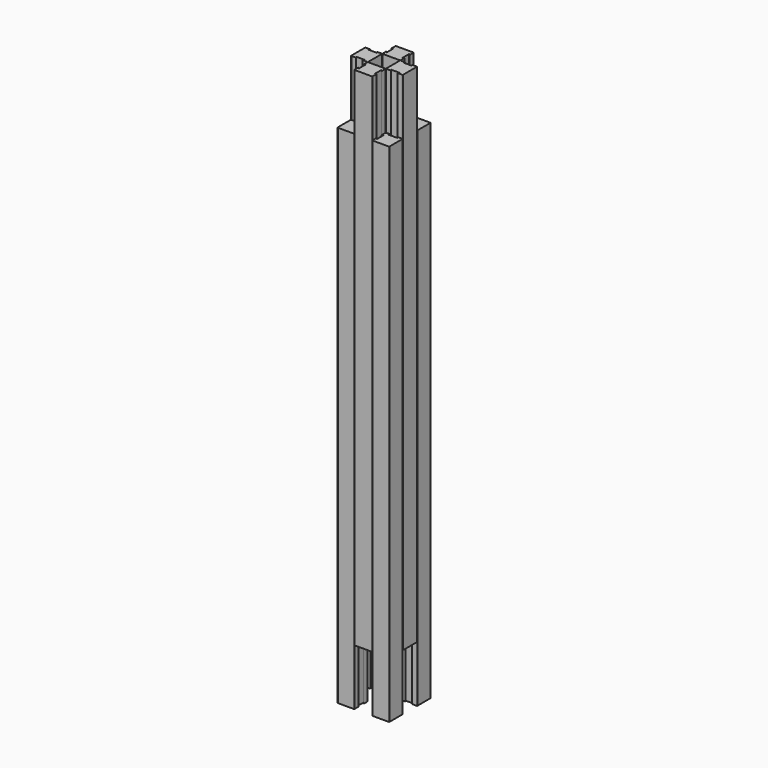
from build123d import *

# Parameters (mm, degrees)
F4_DEPTH = 450
F5_DEPTH = 450


with BuildPart() as f4:
    # F2 (on Top) → F4 (new body)
    with BuildSketch(Plane.XY):
        with BuildLine():
            Line((-22.5, -23), (-8.5, -23))
            ThreePointArc((-8.5, -23), (-8.146447, -22.853553), (-8, -22.5))
            Line((-8, -22.5), (-8, -18.5))
            Line((-8, -18.5), (-9.2, -19.5))
            Line((-9.2, -19.5), (-9.2, -15.5))
            Line((-9.2, -15.5), (-9.2, -11.5))
            Line((-9.2, -11.5), (-8, -12.5))
            Line((-8, -12.5), (-8, -8.5))
            ThreePointArc((-8, -8.5), (-8.146447, -8.146447), (-8.5, -8))
            Line((-8.5, -8), (-12.5, -8))
            Line((-12.5, -8), (-11.5, -9.2))
            Line((-11.5, -9.2), (-15.5, -9.2))
            Line((-15.5, -9.2), (-19.5, -9.2))
            Line((-19.5, -9.2), (-18.5, -8))
            Line((-18.5, -8), (-22.5, -8))
            ThreePointArc((-22.5, -8), (-22.853553, -8.146447), (-23, -8.5))
            Line((-23, -8.5), (-23, -22.5))
            ThreePointArc((-23, -22.5), (-22.853553, -22.853553), (-22.5, -23))
        make_face()
        with BuildLine():
            ThreePointArc((8, -22.5), (8.146447, -22.853553), (8.5, -23))
            Line((8.5, -23), (22.5, -23))
            ThreePointArc((22.5, -23), (22.853553, -22.853553), (23, -22.5))
            Line((23, -22.5), (23, -8.5))
            ThreePointArc((23, -8.5), (22.853553, -8.146447), (22.5, -8))
            Line((22.5, -8), (18.5, -8))
            Line((18.5, -8), (19.5, -9.2))
            Line((19.5, -9.2), (15.5, -9.2))
            Line((15.5, -9.2), (11.5, -9.2))
            Line((11.5, -9.2), (12.5, -8))
            Line((12.5, -8), (8.5, -8))
            ThreePointArc((8.5, -8), (8.146447, -8.146447), (8, -8.5))
            Line((8, -8.5), (8, -12.5))
            Line((8, -12.5), (9.2, -11.5))
            Line((9.2, -11.5), (9.2, -15.5))
            Line((9.2, -15.5), (9.2, -19.5))
            Line((9.2, -19.5), (8, -18.5))
            Line((8, -18.5), (8, -22.5))
        make_face()
        with BuildLine():
            ThreePointArc((22.5, 8), (22.853553, 8.146447), (23, 8.5))
            Line((23, 8.5), (23, 22.5))
            ThreePointArc((23, 22.5), (22.853553, 22.853553), (22.5, 23))
            Line((22.5, 23), (8.5, 23))
            ThreePointArc((8.5, 23), (8.146447, 22.853553), (8, 22.5))
            Line((8, 22.5), (8, 18.5))
            Line((8, 18.5), (9.2, 19.5))
            Line((9.2, 19.5), (9.2, 15.5))
            Line((9.2, 15.5), (9.2, 11.5))
            Line((9.2, 11.5), (8, 12.5))
            Line((8, 12.5), (8, 8.5))
            ThreePointArc((8, 8.5), (8.146447, 8.146447), (8.5, 8))
            Line((8.5, 8), (12.5, 8))
            Line((12.5, 8), (11.5, 9.2))
            Line((11.5, 9.2), (15.5, 9.2))
            Line((15.5, 9.2), (19.5, 9.2))
            Line((19.5, 9.2), (18.5, 8))
            Line((18.5, 8), (22.5, 8))
        make_face()
        with BuildLine():
            ThreePointArc((-8, 22.5), (-8.146447, 22.853553), (-8.5, 23))
            Line((-8.5, 23), (-22.5, 23))
            ThreePointArc((-22.5, 23), (-22.853553, 22.853553), (-23, 22.5))
            Line((-23, 22.5), (-23, 8.5))
            ThreePointArc((-23, 8.5), (-22.853553, 8.146447), (-22.5, 8))
            Line((-22.5, 8), (-18.5, 8))
            Line((-18.5, 8), (-19.5, 9.2))
            Line((-19.5, 9.2), (-15.5, 9.2))
            Line((-15.5, 9.2), (-11.5, 9.2))
            Line((-11.5, 9.2), (-12.5, 8))
            Line((-12.5, 8), (-8.5, 8))
            ThreePointArc((-8.5, 8), (-8.146447, 8.146447), (-8, 8.5))
            Line((-8, 8.5), (-8, 12.5))
            Line((-8, 12.5), (-9.2, 11.5))
            Line((-9.2, 11.5), (-9.2, 15.5))
            Line((-9.2, 15.5), (-9.2, 19.5))
            Line((-9.2, 19.5), (-8, 18.5))
            Line((-8, 18.5), (-8, 22.5))
        make_face()
    extrude(amount=F4_DEPTH)


with BuildPart() as f5:
    # F3 (on offset) → F5 (new body)
    with BuildSketch(Plane.XY.offset(500)):
        with BuildLine():
            Line((-18.5, 8), (-22.5, 8))
            ThreePointArc((-22.5, 8), (-22.853553, 7.853553), (-23, 7.5))
            Line((-23, 7.5), (-23, 0))
            Line((-23, 0), (-23, -7.5))
            ThreePointArc((-23, -7.5), (-22.853553, -7.853553), (-22.5, -8))
            Line((-22.5, -8), (-18.5, -8))
            Line((-18.5, -8), (-19.5, -6.8))
            Line((-19.5, -6.8), (-15.5, -6.8))
            Line((-15.5, -6.8), (-11.5, -6.8))
            Line((-11.5, -6.8), (-12.5, -8))
            Line((-12.5, -8), (-8.5, -8))
            ThreePointArc((-8.5, -8), (-8.146447, -7.853553), (-8, -7.5))
            Line((-8, -7.5), (-8, 0))
            Line((-8, 0), (-8, 7.5))
            ThreePointArc((-8, 7.5), (-8.146447, 7.853553), (-8.5, 8))
            Line((-8.5, 8), (-12.5, 8))
            Line((-12.5, 8), (-11.5, 6.8))
            Line((-11.5, 6.8), (-15.5, 6.8))
            Line((-15.5, 6.8), (-19.5, 6.8))
            Line((-19.5, 6.8), (-18.5, 8))
        make_face()
        with BuildLine():
            Line((8, -12.5), (8, -8.5))
            ThreePointArc((8, -8.5), (7.853553, -8.146447), (7.5, -8))
            Line((7.5, -8), (0, -8))
            Line((0, -8), (-7.5, -8))
            ThreePointArc((-7.5, -8), (-7.853553, -8.146447), (-8, -8.5))
            Line((-8, -8.5), (-8, -12.5))
            Line((-8, -12.5), (-6.8, -11.5))
            Line((-6.8, -11.5), (-6.8, -15.5))
            Line((-6.8, -15.5), (-6.8, -19.5))
            Line((-6.8, -19.5), (-8, -18.5))
            Line((-8, -18.5), (-8, -22.5))
            ThreePointArc((-8, -22.5), (-7.853553, -22.853553), (-7.5, -23))
            Line((-7.5, -23), (0, -23))
            Line((0, -23), (7.5, -23))
            ThreePointArc((7.5, -23), (7.853553, -22.853553), (8, -22.5))
            Line((8, -22.5), (8, -18.5))
            Line((8, -18.5), (6.8, -19.5))
            Line((6.8, -19.5), (6.8, -15.5))
            Line((6.8, -15.5), (6.8, -11.5))
            Line((6.8, -11.5), (8, -12.5))
        make_face()
        with BuildLine():
            Line((12.5, 8), (8.5, 8))
            ThreePointArc((8.5, 8), (8.146447, 7.853553), (8, 7.5))
            Line((8, 7.5), (8, 0))
            Line((8, 0), (8, -7.5))
            ThreePointArc((8, -7.5), (8.146447, -7.853553), (8.5, -8))
            Line((8.5, -8), (12.5, -8))
            Line((12.5, -8), (11.5, -6.8))
            Line((11.5, -6.8), (15.5, -6.8))
            Line((15.5, -6.8), (19.5, -6.8))
            Line((19.5, -6.8), (18.5, -8))
            Line((18.5, -8), (22.5, -8))
            ThreePointArc((22.5, -8), (22.853553, -7.853553), (23, -7.5))
            Line((23, -7.5), (23, 0))
            Line((23, 0), (23, 7.5))
            ThreePointArc((23, 7.5), (22.853553, 7.853553), (22.5, 8))
            Line((22.5, 8), (18.5, 8))
            Line((18.5, 8), (19.5, 6.8))
            Line((19.5, 6.8), (15.5, 6.8))
            Line((15.5, 6.8), (11.5, 6.8))
            Line((11.5, 6.8), (12.5, 8))
        make_face()
        with BuildLine():
            Line((-8, 12.5), (-8, 8.5))
            ThreePointArc((-8, 8.5), (-7.853553, 8.146447), (-7.5, 8))
            Line((-7.5, 8), (0, 8))
            Line((0, 8), (7.5, 8))
            ThreePointArc((7.5, 8), (7.853553, 8.146447), (8, 8.5))
            Line((8, 8.5), (8, 12.5))
            Line((8, 12.5), (6.8, 11.5))
            Line((6.8, 11.5), (6.8, 15.5))
            Line((6.8, 15.5), (6.8, 19.5))
            Line((6.8, 19.5), (8, 18.5))
            Line((8, 18.5), (8, 22.5))
            ThreePointArc((8, 22.5), (7.853553, 22.853553), (7.5, 23))
            Line((7.5, 23), (0, 23))
            Line((0, 23), (-7.5, 23))
            ThreePointArc((-7.5, 23), (-7.853553, 22.853553), (-8, 22.5))
            Line((-8, 22.5), (-8, 18.5))
            Line((-8, 18.5), (-6.8, 19.5))
            Line((-6.8, 19.5), (-6.8, 15.5))
            Line((-6.8, 15.5), (-6.8, 11.5))
            Line((-6.8, 11.5), (-8, 12.5))
        make_face()
    extrude(amount=-F5_DEPTH)


solid = Compound([f4.part, f5.part])
